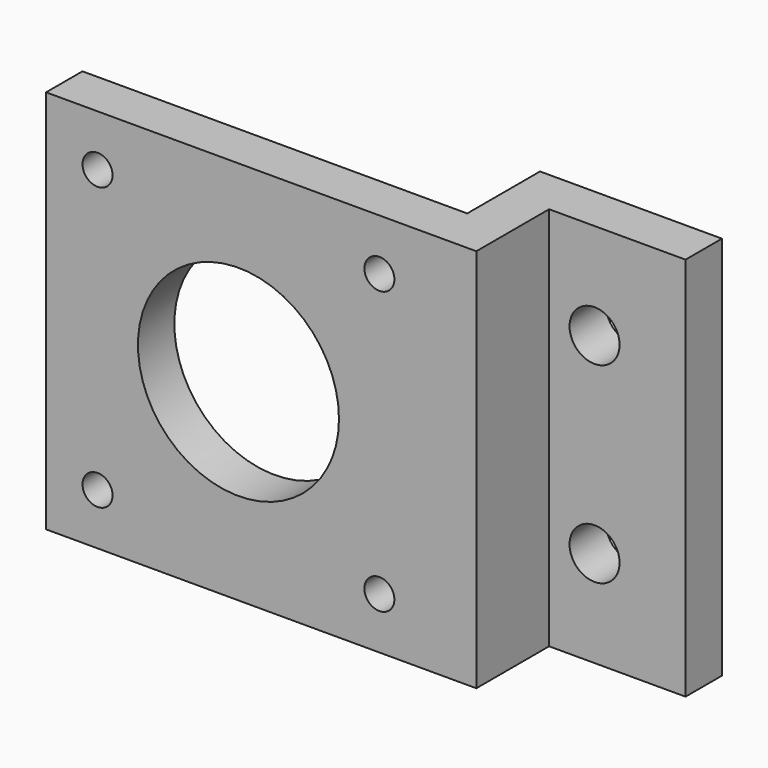
from build123d import *

# Parameters (mm, degrees)
F0_W     = 20
F0_H     = 42.3
F1_DEPTH = 5
F2_W     = 5
F2_H     = 42.3
F3_DEPTH = 10
F4_W     = 5
F4_H     = 42.3
F5_DEPTH = 42.3
F6_R     = 11.05
F7_DEPTH = 5.1
F8_D     = 3.3
F9_D     = 5.5


with BuildPart() as f1:
    # F0 (on Front) → F1 (new body)
    with BuildSketch(Plane.XZ):
        Rectangle(F0_W, F0_H)
    extrude(amount=F1_DEPTH)

    # F2 (on face) → F3 (join)
    with BuildSketch(Plane.XZ.offset(5)):
        with Locations((-7.5, 0)):
            Rectangle(F2_W, F2_H)
    extrude(amount=F3_DEPTH)

    # F4 (on face) → F5 (join)
    with BuildSketch(Plane(origin=(-10, 0, 0), x_dir=(0, -1, 0), z_dir=(-1, 0, 0))):
        with Locations((12.5, 0)):
            Rectangle(F4_W, F4_H)
    extrude(amount=F5_DEPTH)

    # F6 (on face) → F7 (cut)
    with BuildSketch(Plane.XZ.offset(15)):
        with Locations((-31.15, 0)):
            Circle(F6_R)
    extrude(amount=-F7_DEPTH, mode=Mode.SUBTRACT)

    # F8 (through all)
    with Locations(Plane.XZ.offset(15)):
        with Locations((-46.6431457505, 15.4931457505), (-15.6568542495, 15.4931457505), (-15.6568542495, -15.4931457505), (-46.6431457505, -15.4931457505)):
            Hole(F8_D / 2)

    # F9 (through all)
    with Locations(Plane(origin=(0, 0, 0), x_dir=(1, 0, 0), z_dir=(0, 1, 0))):
        with Locations((0, -10.55), (0, 10.55)):
            Hole(F9_D / 2)


solid = f1.part
